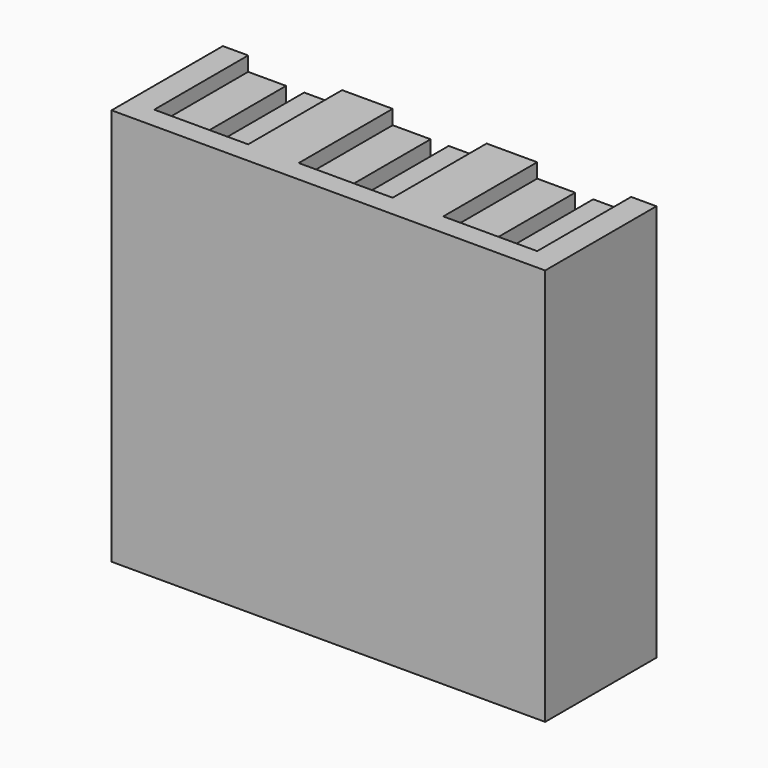
from build123d import *

# Parameters (mm, degrees)
SKETCH_W               = 24
SKETCH_H               = 7.7
PAD_DEPTH              = 22
SKETCH001_W            = 5.2
SKETCH001_H            = 6.5
POCKET_DEPTH           = 0.8
LINEARPATTERN_COUNT    = 3
LINEARPATTERN_PITCH    = 8
SKETCH002_W            = 1
SKETCH002_H            = 5.4
POCKET001_DEPTH        = 22
LINEARPATTERN001_COUNT = 3
LINEARPATTERN001_PITCH = 8


with BuildPart() as part:
    # Sketch → Pad (new body)
    with BuildSketch(Plane.XY):
        with Locations((12, 3.85)):
            Rectangle(SKETCH_W, SKETCH_H)
    extrude(amount=PAD_DEPTH)

    # Sketch001 (on Face6 of Pad) → Pocket (cut)
    with BuildSketch(Plane.XY.offset(22)):
        with Locations((4, 4.45)):
            Rectangle(SKETCH001_W, SKETCH001_H)
    pocket = extrude(amount=-POCKET_DEPTH, mode=Mode.SUBTRACT)

    # LinearPattern: Pocket ×3
    with Locations(*[(i * LINEARPATTERN_PITCH, 0, 0) for i in range(1, LINEARPATTERN_COUNT)]):
        add(pocket, mode=Mode.SUBTRACT)

    # Sketch002 (on Face16 of LinearPattern) → Pocket001 (cut)
    with BuildSketch(Plane.XY.offset(21.2)):
        with Locations((4, 5)):
            Rectangle(SKETCH002_W, SKETCH002_H)
    pocket001 = extrude(amount=-POCKET001_DEPTH, mode=Mode.SUBTRACT)

    # LinearPattern001: Pocket001 ×3
    with Locations(*[(i * LINEARPATTERN001_PITCH, 0, 0) for i in range(1, LINEARPATTERN001_COUNT)]):
        add(pocket001, mode=Mode.SUBTRACT)


solid = part.part
